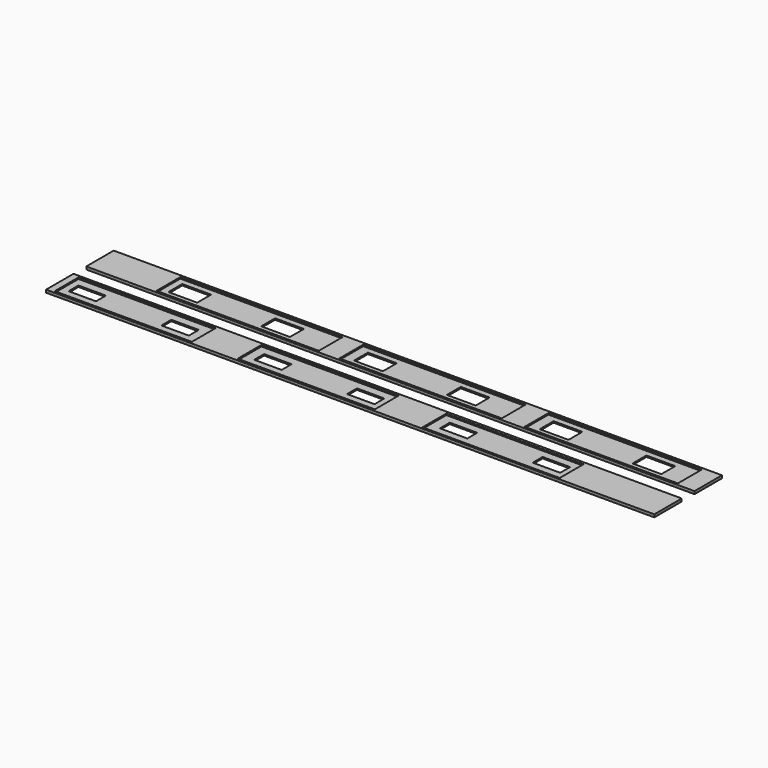
from build123d import *

# Parameters (mm, degrees)
F0_W     = 1330
F0_H     = 75
F0_W_2   = 355
F0_H_2   = 65
F0_W_3   = 335
F0_W_4   = 300
F2_DEPTH = 3
F1_W     = 1330
F1_H     = 75
F1_W_2   = 63
F1_H_2   = 38
F1_W_3   = 60
F1_H_3   = 27
F3_DEPTH = 3


with BuildPart() as f2:
    # F0 (on Top) → F2 (new body)
    with BuildSketch(Plane.XY):
        with Locations((665, 37.5)):
            Rectangle(F0_W, F0_H)
        with Locations((327.5, 37.015805)):
            Rectangle(F0_W_2, F0_H_2, mode=Mode.SUBTRACT)
        with Locations((727.5, 37.015794)):
            Rectangle(F0_W_2, F0_H_2, mode=Mode.SUBTRACT)
        with Locations((1122.5, 37.015812)):
            Rectangle(F0_W_3, F0_H_2, mode=Mode.SUBTRACT)
        with Locations((665, -72.338669)):
            Rectangle(F0_W, F0_H)
        with Locations((165, -72.586558)):
            Rectangle(F0_W_4, F0_H_2, mode=Mode.SUBTRACT)
        with Locations((565, -72.413251)):
            Rectangle(F0_W_4, F0_H_2, mode=Mode.SUBTRACT)
        with Locations((970, -73.346786)):
            Rectangle(F0_W_4, F0_H_2, mode=Mode.SUBTRACT)
    extrude(amount=F2_DEPTH)


with BuildPart() as f3:
    # F1 (on Top) → F3 (new body)
    with BuildSketch(Plane.XY):
        with Locations((665, 37.5)):
            Rectangle(F1_W, F1_H)
        with Locations((196.5, 37.161331)):
            Rectangle(F1_W_2, F1_H_2, mode=Mode.SUBTRACT)
        with Locations((399.5, 37.161331)):
            Rectangle(F1_W_2, F1_H_2, mode=Mode.SUBTRACT)
        with Locations((602.5, 37.161331)):
            Rectangle(F1_W_2, F1_H_2, mode=Mode.SUBTRACT)
        with Locations((805.5, 37.161331)):
            Rectangle(F1_W_2, F1_H_2, mode=Mode.SUBTRACT)
        with Locations((1008.5, 37.161331)):
            Rectangle(F1_W_2, F1_H_2, mode=Mode.SUBTRACT)
        with Locations((1211.5, 37.161331)):
            Rectangle(F1_W_2, F1_H_2, mode=Mode.SUBTRACT)
        with Locations((665, -72.338669)):
            Rectangle(F1_W, F1_H)
        with Locations((60, -72.338669)):
            Rectangle(F1_W_3, F1_H_3, mode=Mode.SUBTRACT)
        with Locations((263, -72.338669)):
            Rectangle(F1_W_3, F1_H_3, mode=Mode.SUBTRACT)
        with Locations((466, -72.338669)):
            Rectangle(F1_W_3, F1_H_3, mode=Mode.SUBTRACT)
        with Locations((669, -72.338669)):
            Rectangle(F1_W_3, F1_H_3, mode=Mode.SUBTRACT)
        with Locations((872, -72.338669)):
            Rectangle(F1_W_3, F1_H_3, mode=Mode.SUBTRACT)
        with Locations((1075, -72.338669)):
            Rectangle(F1_W_3, F1_H_3, mode=Mode.SUBTRACT)
    extrude(amount=-F3_DEPTH)


solid = Compound([f2.part, f3.part])
